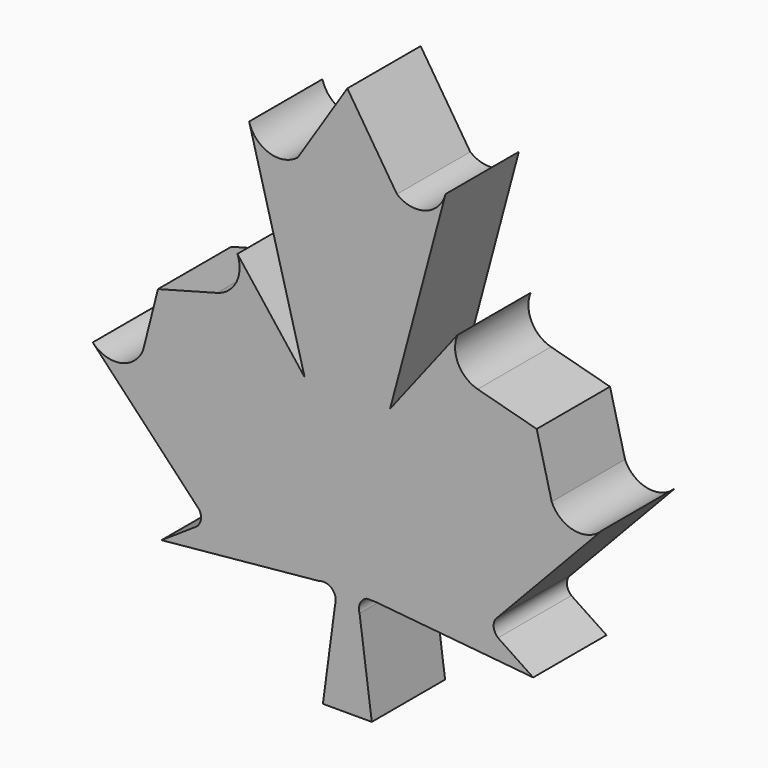
from build123d import *

# Parameters (mm, degrees)
F1_DEPTH = 30


with BuildPart() as f1:
    # F0 (on Front) → F1 (new body)
    with BuildSketch(Plane.XZ):
        with BuildLine():
            Line((16.246856, 73.438403), (0, 98.65823))
            Line((0, 98.65823), (0, -51.34177))
            Line((0, -51.34177), (4, -51.34177))
            ThreePointArc((4, -51.34177), (4.181132, -48.365772), (6.370376, -46.34177))
            ThreePointArc((6.370376, -46.34177), (7.795537, -46.079272), (9.220697, -46.34177))
            Line((9.220697, -46.34177), (60.847245, -51.34177))
            Line((60.847245, -51.34177), (49.33347, -43.671459))
            ThreePointArc((49.33347, -43.671459), (47.957966, -41.291777), (48.44287, -38.58627))
            ThreePointArc((48.44287, -38.58627), (48.992071, -37.85299), (49.69371, -37.263903))
            Line((49.69371, -37.263903), (83.367956, -1.664075))
            ThreePointArc((83.367956, -1.664075), (74.347655, -4.636921), (66.910868, 1.270518))
            Line((66.910868, 1.270518), (62, 20.65823))
            Line((62, 20.65823), (42.681483, 25.834611))
            ThreePointArc((42.681483, 25.834611), (36.318117, 31.036333), (36.001559, 39.249137))
            Line((36.001559, 39.249137), (13.986726, 10.857402))
            Line((13.986726, 10.857402), (32.153903, 78.65823))
            ThreePointArc((32.153903, 78.65823), (25.612525, 71.744903), (16.246856, 73.438403))
        make_face()
        with BuildLine():
            Line((0, -51.34177), (0, 98.65823))
            Line((0, 98.65823), (-16.246856, 73.438403))
            ThreePointArc((-16.246856, 73.438403), (-25.612525, 71.744903), (-32.153903, 78.65823))
            Line((-32.153903, 78.65823), (-13.986726, 10.857402))
            Line((-13.986726, 10.857402), (-36.001559, 39.249137))
            ThreePointArc((-36.001559, 39.249137), (-36.318117, 31.036333), (-42.681483, 25.834611))
            Line((-42.681483, 25.834611), (-62, 20.65823))
            Line((-62, 20.65823), (-66.910868, 1.270518))
            ThreePointArc((-66.910868, 1.270518), (-74.347655, -4.636921), (-83.367956, -1.664075))
            Line((-83.367956, -1.664075), (-49.69371, -37.263903))
            ThreePointArc((-49.69371, -37.263903), (-48.992071, -37.85299), (-48.44287, -38.58627))
            ThreePointArc((-48.44287, -38.58627), (-47.957966, -41.291777), (-49.33347, -43.671459))
            Line((-49.33347, -43.671459), (-60.847245, -51.34177))
            Line((-60.847245, -51.34177), (-9.220697, -46.34177))
            ThreePointArc((-9.220697, -46.34177), (-5.028829, -47.190444), (-4, -51.34177))
            Line((-4, -51.34177), (-8, -81.34177))
            Line((-8, -81.34177), (0, -81.34177))
            Line((0, -81.34177), (0, -51.34177))
        make_face()
        Polygon((4, -51.34177), (0, -51.34177), (0, -81.34177), (8, -81.34177), align=None)
        with BuildLine():
            ThreePointArc((9.220697, -46.34177), (7.795537, -46.079272), (6.370376, -46.34177))
            Line((6.370376, -46.34177), (9.220697, -46.34177))
        make_face()
        with BuildLine():
            ThreePointArc((49.69371, -37.263903), (48.992071, -37.85299), (48.44287, -38.58627))
            Line((48.44287, -38.58627), (49.69371, -37.263903))
        make_face()
        with BuildLine():
            Line((-49.69371, -37.263903), (-48.44287, -38.58627))
            ThreePointArc((-48.44287, -38.58627), (-48.992071, -37.85299), (-49.69371, -37.263903))
        make_face()
        with BuildLine():
            Line((16.246856, 73.438403), (0, 98.65823))
            Line((0, 98.65823), (0, -51.34177))
            Line((0, -51.34177), (4, -51.34177))
            ThreePointArc((4, -51.34177), (4.181132, -48.365772), (6.370376, -46.34177))
            ThreePointArc((6.370376, -46.34177), (7.795537, -46.079272), (9.220697, -46.34177))
            Line((9.220697, -46.34177), (60.847245, -51.34177))
            Line((60.847245, -51.34177), (49.33347, -43.671459))
            ThreePointArc((49.33347, -43.671459), (47.957966, -41.291777), (48.44287, -38.58627))
            ThreePointArc((48.44287, -38.58627), (48.992071, -37.85299), (49.69371, -37.263903))
            Line((49.69371, -37.263903), (83.367956, -1.664075))
            ThreePointArc((83.367956, -1.664075), (74.347655, -4.636921), (66.910868, 1.270518))
            Line((66.910868, 1.270518), (62, 20.65823))
            Line((62, 20.65823), (42.681483, 25.834611))
            ThreePointArc((42.681483, 25.834611), (36.318117, 31.036333), (36.001559, 39.249137))
            Line((36.001559, 39.249137), (13.986726, 10.857402))
            Line((13.986726, 10.857402), (32.153903, 78.65823))
            ThreePointArc((32.153903, 78.65823), (25.612525, 71.744903), (16.246856, 73.438403))
        make_face()
    extrude(amount=F1_DEPTH)


solid = f1.part
